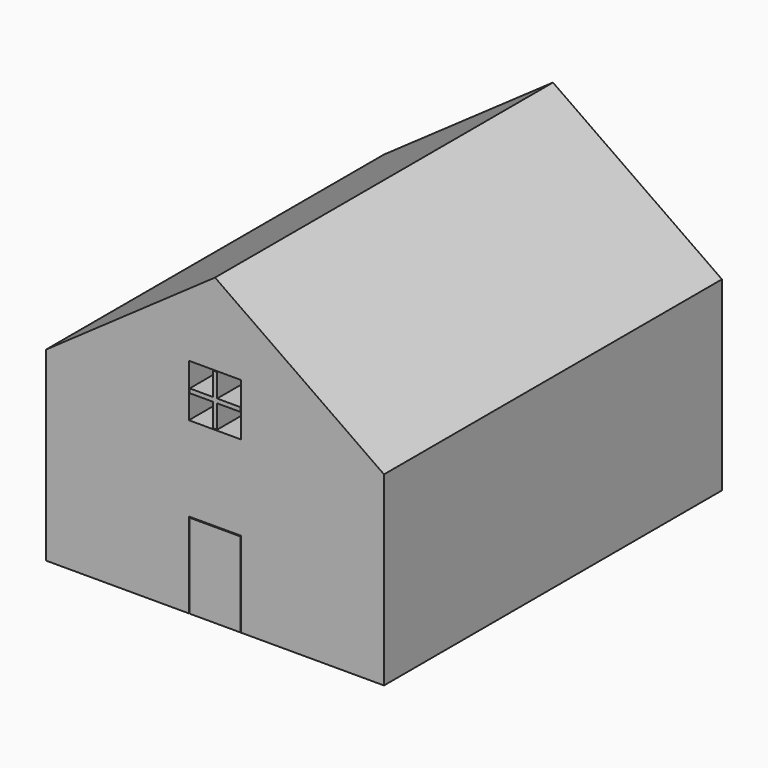
from build123d import *

# Parameters (mm, degrees)
F1_DEPTH = 127
F0_W     = 1.27
F0_H     = 6.985
F0_W_2   = 6.985
F0_H_2   = 1.27
F0_H_3   = 2.4906031942
F0_H_4   = 4.4943968058
F0_W_3   = 15.24
F0_H_5   = 25.4


with BuildPart() as f1:
    # F0 (on Front) → F1 (new body)
    with BuildSketch(Plane.XZ):
        Polygon((0, 91.4505429411), (-50.8, 55.88), (-7.874, 55.88), (-7.874, 66.8796031942), (7.874, 66.8796031942), (7.874, 55.88), (50.8, 55.88), align=None)
        Polygon((-50.8, 0), (-7.874, 0), (-7.874, 25.654), (7.874, 25.654), (7.874, 0), (50.8, 0), (50.8, 55.88), (7.874, 55.88), (7.874, 51.1316031942), (-7.874, 51.1316031942), (-7.874, 55.88), (-50.8, 55.88), align=None)
    extrude(amount=F1_DEPTH)


with BuildPart() as f1b:
    # F0 (on Front) → F1, piece 2 (new body)
    with BuildSketch(Plane.XZ):
        with Locations((0, 63.1331031942)):
            Rectangle(F0_W, F0_H)
        with Locations((4.1275, 59.0056031942)):
            Rectangle(F0_W_2, F0_H_2)
        with Locations((-4.1275, 59.0056031942)):
            Rectangle(F0_W_2, F0_H_2)
        with Locations((0, 59.0056031942)):
            Rectangle(F0_W, F0_H_2)
        with Locations((0, 57.1253015971)):
            Rectangle(F0_W, F0_H_3)
        with Locations((0, 53.6328015971)):
            Rectangle(F0_W, F0_H_4)
    extrude(amount=F1_DEPTH)


with BuildPart() as f1c:
    # F0 (on Front) → F1, piece 3 (new body)
    with BuildSketch(Plane.XZ):
        with Locations((0, 12.7)):
            Rectangle(F0_W_3, F0_H_5)
    extrude(amount=F1_DEPTH)


solid = Compound([f1.part, f1b.part, f1c.part])
